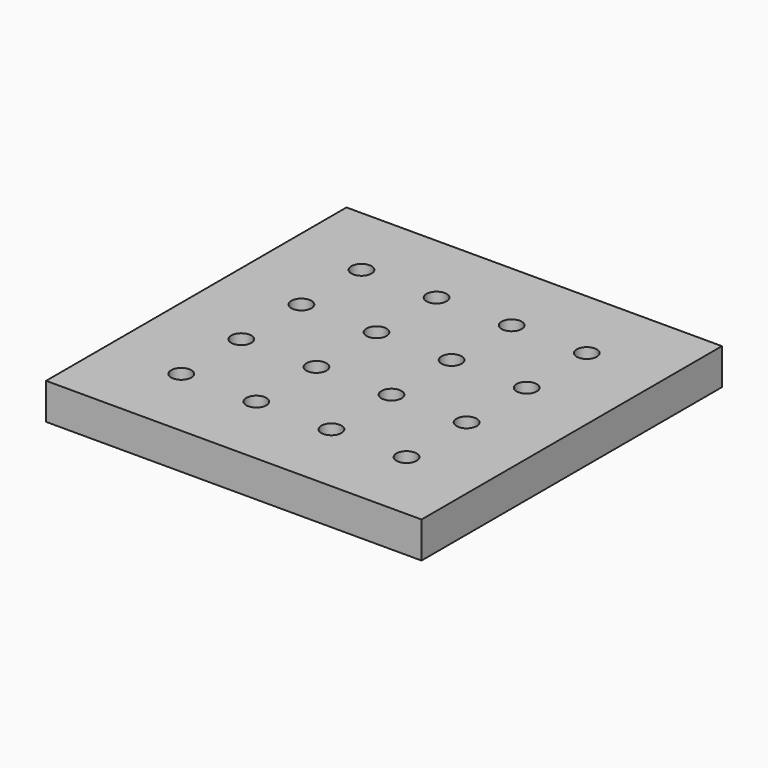
from build123d import *

# Parameters (mm, degrees)
F0_W     = 150
F0_H     = 150
F0_R     = 4.675
F0_R_2   = 4.025
F1_DEPTH = 14.45
F2_DEPTH = 25
F3_DEPTH = 5.55


with BuildPart() as f1:
    # F0 (on Top) → F1 (new body)
    with BuildSketch(Plane.XY):
        with Locations((-75, 75)):
            Rectangle(F0_W, F0_H)
        with Locations((-120, 30)):
            Circle(F0_R, mode=Mode.SUBTRACT)
        with Locations((-90, 30)):
            Circle(F0_R, mode=Mode.SUBTRACT)
        with Locations((-120, 60)):
            Circle(F0_R, mode=Mode.SUBTRACT)
        with Locations((-90, 60)):
            Circle(F0_R, mode=Mode.SUBTRACT)
        with Locations((-60, 30)):
            Circle(F0_R, mode=Mode.SUBTRACT)
        with Locations((-30, 30)):
            Circle(F0_R, mode=Mode.SUBTRACT)
        with Locations((-60, 60)):
            Circle(F0_R, mode=Mode.SUBTRACT)
        with Locations((-30, 60)):
            Circle(F0_R, mode=Mode.SUBTRACT)
        with Locations((-120, 90)):
            Circle(F0_R, mode=Mode.SUBTRACT)
        with Locations((-90, 90)):
            Circle(F0_R, mode=Mode.SUBTRACT)
        with Locations((-120, 120)):
            Circle(F0_R, mode=Mode.SUBTRACT)
        with Locations((-90, 120)):
            Circle(F0_R, mode=Mode.SUBTRACT)
        with Locations((-60, 90)):
            Circle(F0_R, mode=Mode.SUBTRACT)
        with Locations((-30, 90)):
            Circle(F0_R, mode=Mode.SUBTRACT)
        with Locations((-60, 120)):
            Circle(F0_R, mode=Mode.SUBTRACT)
        with Locations((-30, 120)):
            Circle(F0_R, mode=Mode.SUBTRACT)
        with Locations((-120, 120)):
            Circle(F0_R)
        with Locations((-120, 120)):
            Circle(F0_R_2, mode=Mode.SUBTRACT)
        with Locations((-90, 120)):
            Circle(F0_R)
        with Locations((-90, 120)):
            Circle(F0_R_2, mode=Mode.SUBTRACT)
        with Locations((-90, 90)):
            Circle(F0_R)
        with Locations((-90, 90)):
            Circle(F0_R_2, mode=Mode.SUBTRACT)
        with Locations((-60, 120)):
            Circle(F0_R)
        with Locations((-60, 120)):
            Circle(F0_R_2, mode=Mode.SUBTRACT)
        with Locations((-60, 90)):
            Circle(F0_R)
        with Locations((-60, 90)):
            Circle(F0_R_2, mode=Mode.SUBTRACT)
        with Locations((-120, 90)):
            Circle(F0_R)
        with Locations((-120, 90)):
            Circle(F0_R_2, mode=Mode.SUBTRACT)
        with Locations((-30, 120)):
            Circle(F0_R)
        with Locations((-30, 120)):
            Circle(F0_R_2, mode=Mode.SUBTRACT)
        with Locations((-30, 90)):
            Circle(F0_R)
        with Locations((-30, 90)):
            Circle(F0_R_2, mode=Mode.SUBTRACT)
        with Locations((-120, 60)):
            Circle(F0_R)
        with Locations((-120, 60)):
            Circle(F0_R_2, mode=Mode.SUBTRACT)
        with Locations((-90, 60)):
            Circle(F0_R)
        with Locations((-90, 60)):
            Circle(F0_R_2, mode=Mode.SUBTRACT)
        with Locations((-90, 30)):
            Circle(F0_R)
        with Locations((-90, 30)):
            Circle(F0_R_2, mode=Mode.SUBTRACT)
        with Locations((-120, 30)):
            Circle(F0_R)
        with Locations((-120, 30)):
            Circle(F0_R_2, mode=Mode.SUBTRACT)
        with Locations((-60, 30)):
            Circle(F0_R)
        with Locations((-60, 30)):
            Circle(F0_R_2, mode=Mode.SUBTRACT)
        with Locations((-30, 30)):
            Circle(F0_R)
        with Locations((-30, 30)):
            Circle(F0_R_2, mode=Mode.SUBTRACT)
        with Locations((-60, 60)):
            Circle(F0_R)
        with Locations((-60, 60)):
            Circle(F0_R_2, mode=Mode.SUBTRACT)
        with Locations((-30, 60)):
            Circle(F0_R)
        with Locations((-30, 60)):
            Circle(F0_R_2, mode=Mode.SUBTRACT)
        with Locations((-120, 120)):
            Circle(F0_R_2)
        with Locations((-90, 120)):
            Circle(F0_R_2)
        with Locations((-60, 120)):
            Circle(F0_R_2)
        with Locations((-30, 90)):
            Circle(F0_R_2)
        with Locations((-60, 90)):
            Circle(F0_R_2)
        with Locations((-90, 90)):
            Circle(F0_R_2)
        with Locations((-120, 60)):
            Circle(F0_R_2)
        with Locations((-90, 60)):
            Circle(F0_R_2)
        with Locations((-60, 60)):
            Circle(F0_R_2)
        with Locations((-30, 60)):
            Circle(F0_R_2)
        with Locations((-30, 30)):
            Circle(F0_R_2)
        with Locations((-60, 30)):
            Circle(F0_R_2)
        with Locations((-90, 30)):
            Circle(F0_R_2)
        with Locations((-120, 90)):
            Circle(F0_R_2)
        with Locations((-30, 120)):
            Circle(F0_R_2)
        with Locations((-120, 30)):
            Circle(F0_R_2)
    extrude(amount=F1_DEPTH)

    # F0 (on Top) → F2 (cut)
    with BuildSketch(Plane.XY):
        with Locations((-120, 30)):
            Circle(F0_R_2)
        with Locations((-90, 30)):
            Circle(F0_R_2)
        with Locations((-60, 30)):
            Circle(F0_R_2)
        with Locations((-30, 30)):
            Circle(F0_R_2)
        with Locations((-30, 60)):
            Circle(F0_R_2)
        with Locations((-60, 60)):
            Circle(F0_R_2)
        with Locations((-90, 60)):
            Circle(F0_R_2)
        with Locations((-120, 60)):
            Circle(F0_R_2)
        with Locations((-120, 90)):
            Circle(F0_R_2)
        with Locations((-90, 90)):
            Circle(F0_R_2)
        with Locations((-60, 90)):
            Circle(F0_R_2)
        with Locations((-30, 90)):
            Circle(F0_R_2)
        with Locations((-30, 120)):
            Circle(F0_R_2)
        with Locations((-60, 120)):
            Circle(F0_R_2)
        with Locations((-90, 120)):
            Circle(F0_R_2)
        with Locations((-120, 120)):
            Circle(F0_R_2)
    extrude(amount=F2_DEPTH, mode=Mode.SUBTRACT)

    # F0 (on Top) → F3 (cut)
    with BuildSketch(Plane.XY):
        with Locations((-120, 30)):
            Circle(F0_R)
        with Locations((-120, 30)):
            Circle(F0_R_2, mode=Mode.SUBTRACT)
        with Locations((-90, 30)):
            Circle(F0_R)
        with Locations((-90, 30)):
            Circle(F0_R_2, mode=Mode.SUBTRACT)
        with Locations((-60, 30)):
            Circle(F0_R)
        with Locations((-60, 30)):
            Circle(F0_R_2, mode=Mode.SUBTRACT)
        with Locations((-30, 30)):
            Circle(F0_R)
        with Locations((-30, 30)):
            Circle(F0_R_2, mode=Mode.SUBTRACT)
        with Locations((-30, 60)):
            Circle(F0_R)
        with Locations((-30, 60)):
            Circle(F0_R_2, mode=Mode.SUBTRACT)
        with Locations((-60, 60)):
            Circle(F0_R)
        with Locations((-60, 60)):
            Circle(F0_R_2, mode=Mode.SUBTRACT)
        with Locations((-90, 60)):
            Circle(F0_R)
        with Locations((-90, 60)):
            Circle(F0_R_2, mode=Mode.SUBTRACT)
        with Locations((-120, 60)):
            Circle(F0_R)
        with Locations((-120, 60)):
            Circle(F0_R_2, mode=Mode.SUBTRACT)
        with Locations((-120, 90)):
            Circle(F0_R)
        with Locations((-120, 90)):
            Circle(F0_R_2, mode=Mode.SUBTRACT)
        with Locations((-90, 90)):
            Circle(F0_R)
        with Locations((-90, 90)):
            Circle(F0_R_2, mode=Mode.SUBTRACT)
        with Locations((-60, 90)):
            Circle(F0_R)
        with Locations((-60, 90)):
            Circle(F0_R_2, mode=Mode.SUBTRACT)
        with Locations((-30, 90)):
            Circle(F0_R)
        with Locations((-30, 90)):
            Circle(F0_R_2, mode=Mode.SUBTRACT)
        with Locations((-30, 120)):
            Circle(F0_R)
        with Locations((-30, 120)):
            Circle(F0_R_2, mode=Mode.SUBTRACT)
        with Locations((-60, 120)):
            Circle(F0_R)
        with Locations((-60, 120)):
            Circle(F0_R_2, mode=Mode.SUBTRACT)
        with Locations((-90, 120)):
            Circle(F0_R)
        with Locations((-90, 120)):
            Circle(F0_R_2, mode=Mode.SUBTRACT)
        with Locations((-120, 120)):
            Circle(F0_R)
        with Locations((-120, 120)):
            Circle(F0_R_2, mode=Mode.SUBTRACT)
    extrude(amount=F3_DEPTH, mode=Mode.SUBTRACT)


solid = f1.part
